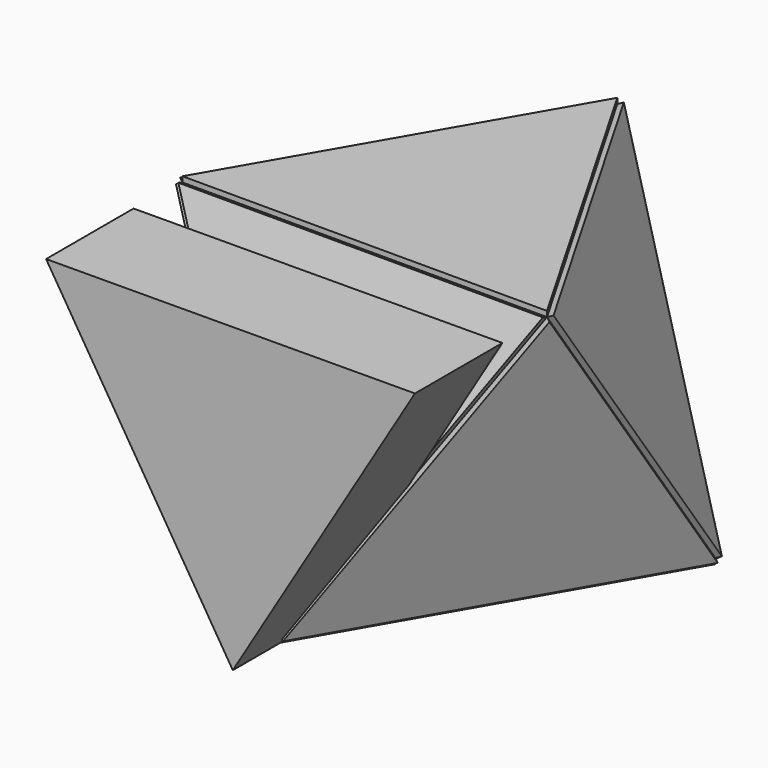
from build123d import *

# Parameters (mm, degrees)
F1_DEPTH       = 3
F4_ANGLE       = 109.47
F7_ANGLE       = -109.47
F9_COUNT       = 3
F11_ANGLE      = 109.47
F12_COUNT      = 3
F15_ANGLE      = -109.47
F20_DEPTH      = 15
F20_DEPTH_BACK = 15


with BuildPart() as f1:
    # F0 (on Top) → F1 (new body)
    with BuildSketch(Plane.XY):
        Polygon((50, 28.8675134595), (-50, 28.8675134595), (0, -57.735026919), align=None)
    extrude(amount=F1_DEPTH)


with BuildPart() as f3_1:
    # F3: copy of F1
    add(f1.part)


with BuildPart() as f3_1_1:
    # F4: moved
    add(f3_1.part.rotate(Axis((-25, -14.4337567297, 1.5), (0.5, -0.8660254038, 0)), F4_ANGLE))


with BuildPart() as f5_1:
    # F5: copy of F1
    add(f1.part)


with BuildPart() as f5_1_1:
    # F7: moved
    add(f5_1.part.rotate(Axis((0, 28.8675134595, 1.5), (1, 0, 0)), F7_ANGLE))


with BuildPart() as f9_1:
    # F9: instance of F3_1
    add(f3_1_1.part.rotate(Axis((0, 0, 37.9892624915), (0, 0, 1)), 1 * 360 / F9_COUNT))


with BuildPart() as f9_2:
    # F9: instance of F3_1
    add(f3_1_1.part.rotate(Axis((0, 0, 37.9892624915), (0, 0, 1)), 2 * 360 / F9_COUNT))


with BuildPart() as f5_1_2:
    # F11: moved
    add(f5_1_1.part.rotate(Axis((25, 43.3004004501, 42.3251365352), (-0.5, 0.2886577398, 0.8165027307)), F11_ANGLE))


with BuildPart() as f12_1:
    # F12: instance of F5_1
    add(f5_1_2.part.rotate(Axis((0, 0, 37.9892624915), (0, 0, 1)), 1 * 360 / F12_COUNT))


with BuildPart() as f12_2:
    # F12: instance of F5_1
    add(f5_1_2.part.rotate(Axis((0, 0, 37.9892624915), (0, 0, 1)), 2 * 360 / F12_COUNT))


with BuildPart() as f14_1:
    # F14: copy of F5_1
    add(f5_1_2.part)


with BuildPart() as f14_1_1:
    # F15: moved
    add(f14_1.part.rotate(Axis((24.9992467838, 14.4315824081, 83.1490430642), (0.4999849357, -0.8660341007, -2.46001e-05)), F15_ANGLE))


with BuildPart() as f20:
    # F19 (on line) → F20 (new body, two sides)
    with BuildSketch(Plane(origin=(0, -59.1164380312, 0), x_dir=(-1, 0, 0), z_dir=(0, 1, 0))) as f20_sk:
        Polygon((-49.9658696353, 83.0944478512), (0, 0), (51.2232476637, 82.650303199), align=None)
    extrude(amount=F20_DEPTH)
    extrude(f20_sk.sketch, amount=-F20_DEPTH_BACK)


solid = Compound([f1.part, f3_1_1.part, f9_1.part, f9_2.part, f5_1_2.part, f12_1.part, f12_2.part, f14_1_1.part, f20.part])
